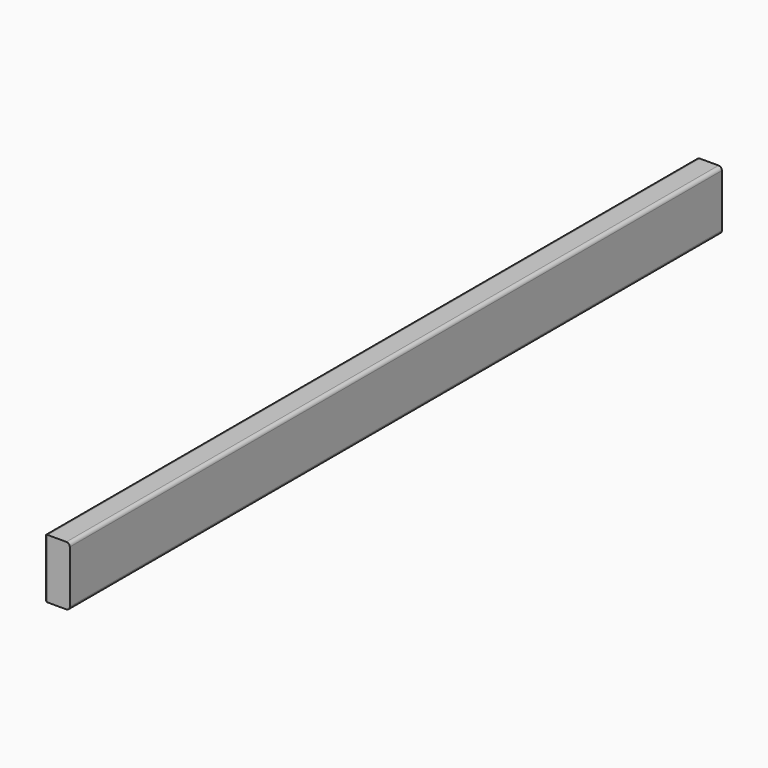
from build123d import *

# Parameters (mm, degrees)
F0_W     = 38.1
F0_H     = 88.9
F1_DEPTH = 1219.2
F2_R     = 5.08


with BuildPart() as f1:
    # F0 (on Front) → F1 (new body)
    with BuildSketch(Plane.XZ):
        with Locations((0.425584, 9.644539)):
            Rectangle(F0_W, F0_H)
    extrude(amount=F1_DEPTH)

    # F2
    f2_edges = [f1.edges().sort_by_distance(p)[0] for p in [
        (-18.624416, -609.6, 54.094539),
        (19.475584, -609.6, 54.094539),
        (-18.624416, -609.6, -34.805461),
        (-18.624416, 0, 9.644539),
        (-18.624416, -1219.2, 9.644539),
        (19.475584, -609.6, -34.805461),
    ]]
    fillet(f2_edges, radius=F2_R)


solid = f1.part
